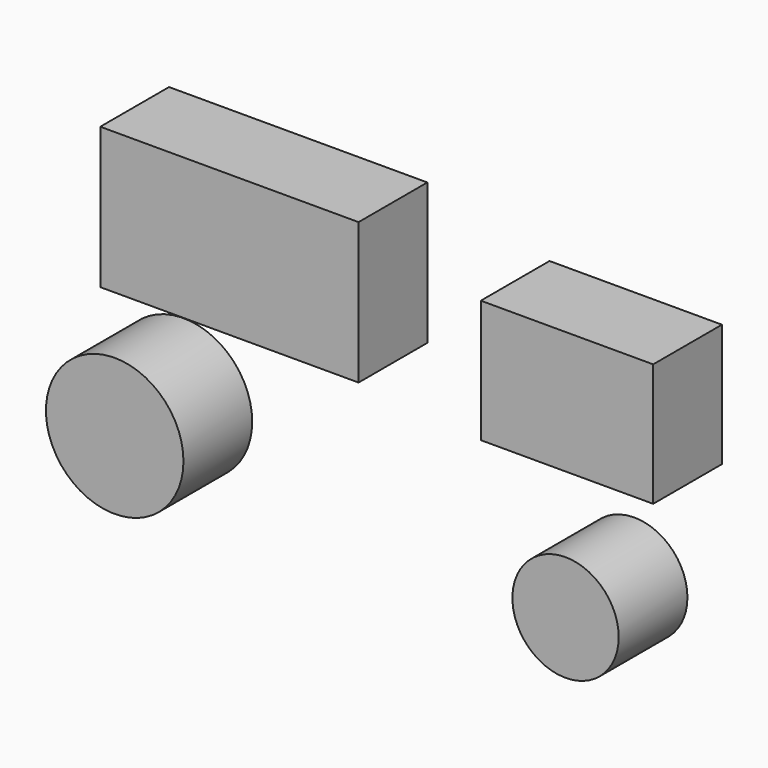
from build123d import *

# Parameters (mm, degrees)
F0_W     = 76.34607
F0_H     = 41.751753
F0_W_2   = 50.954181
F0_H_2   = 36.298465
F0_R     = 20.322737
F0_R_2   = 15.70874
F1_DEPTH = 25.4


with BuildPart() as f1:
    # F0 (on Front) → F1 (new body)
    with BuildSketch(Plane.XZ):
        with Locations((-34.083068, 31.526836)):
            Rectangle(F0_W, F0_H)
        with Locations((65.695112, 25.562299)):
            Rectangle(F0_W_2, F0_H_2)
        with Locations((-67.99572, -26.670001)):
            Circle(F0_R)
        with Locations((65.269075, -30.589554)):
            Circle(F0_R_2)
    extrude(amount=F1_DEPTH)


solid = f1.part
